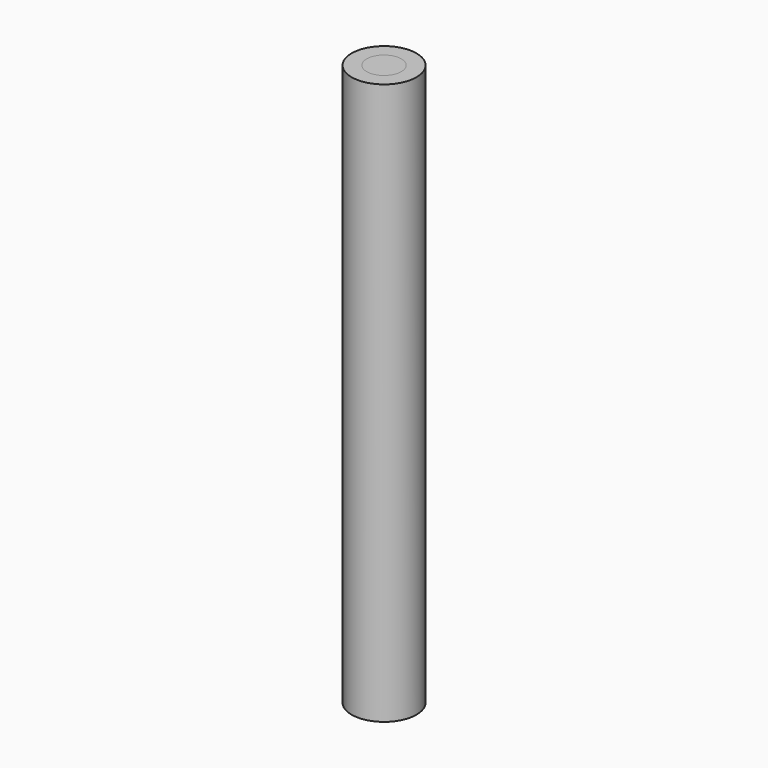
from build123d import *

# Parameters (mm, degrees)
F1_R     = 4.6232796117
F2_DEPTH = 80
F0_R     = 2.4694635694


with BuildPart() as f2:
    # F1 (on Top) → F2 (new body)
    with BuildSketch(Plane.XY):
        Circle(F1_R)
    extrude(amount=F2_DEPTH)


with BuildPart() as f2b:
    # F0 (on Top) → F2, piece 2 (new body)
    with BuildSketch(Plane.XY):
        Circle(F0_R)
    extrude(amount=F2_DEPTH)


solid = Compound([f2.part, f2b.part])
